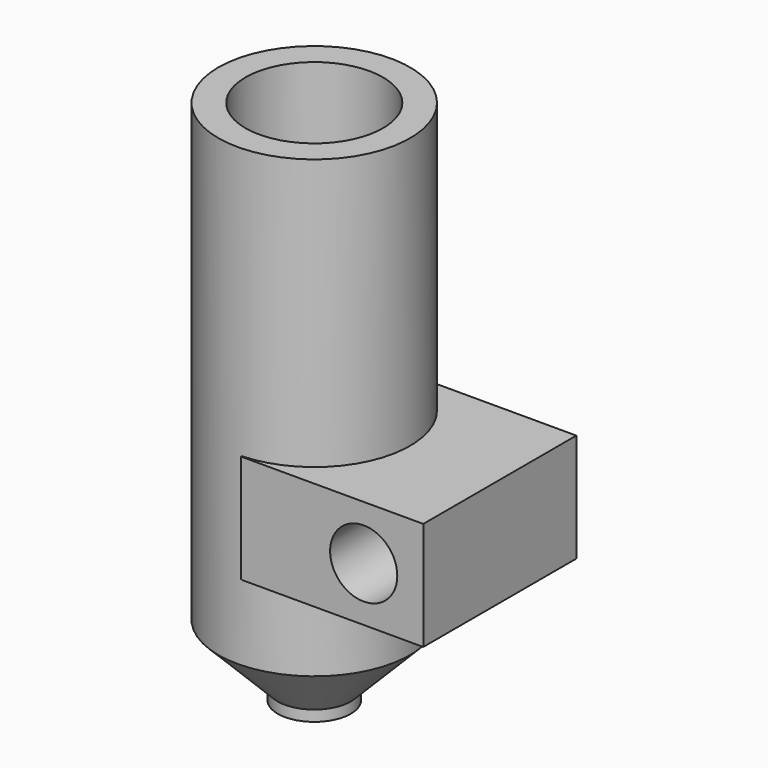
from build123d import *

# Parameters (mm, degrees)
F6_DEPTH = 10
F7_R     = 3.1
F8_DEPTH = 25


with BuildPart() as f2:
    # F1 (on face) → F2 (revolve)
    with BuildSketch(Plane.XZ):
        Polygon((-9.725, 7.55602537), (-7.225, 7.55602537), (-7.225, 23.8076150417), (-7.225, 47.55602537), (-9.725, 47.55602537), align=None)
        with BuildLine():
            ThreePointArc((-1.75, -0.9682458366), (-2, 0), (-1.75, 0.9682458366))
            Line((-1.75, 0.9682458366), (-1.75, 2))
            Line((-1.75, 2), (-7.225, 7.55602537))
            Line((-7.225, 7.55602537), (-9.725, 7.55602537))
            Line((-9.725, 7.55602537), (-9.725, 5.55602537))
            Line((-9.725, 5.55602537), (-4.25, 0))
            Line((-4.25, 0), (-4.25, -1))
            Line((-4.25, -1), (-1.75, -1))
            Line((-1.75, -1), (-1.75, -0.9682458366))
        make_face()
    revolve(axis=Axis((-0.875, 0, 3), (0, 0, 1)))

    # F5 (on offset) → F6 (join)
    with BuildSketch(Plane.XY.offset(22.55602537)):
        Polygon((16.3270153056, 8.7316431165), (0.3520153056, 8.7316431165), (5.1758266054, 5.5884346366), (6.8773869425, -0.8869493031), (5.2230921574, -4.3846019544), (1.3945804676, -7.4095986784), (-0.9214326274, -8.1658484414), (-0.4856002192, -8.9249160441), (8.3270153056, -8.9249160441), (12.3188967407, -8.9249160441), (16.3270153056, -8.9249160441), (16.3270153056, -0.0749950048), align=None)
    extrude(amount=-F6_DEPTH)

    # F7 (on face) → F8 (cut)
    with BuildSketch(Plane.XZ.offset(8.9249160441)):
        with Locations((10.8270153056, 17.55602537)):
            Circle(F7_R)
    extrude(amount=-F8_DEPTH, mode=Mode.SUBTRACT)


solid = f2.part
